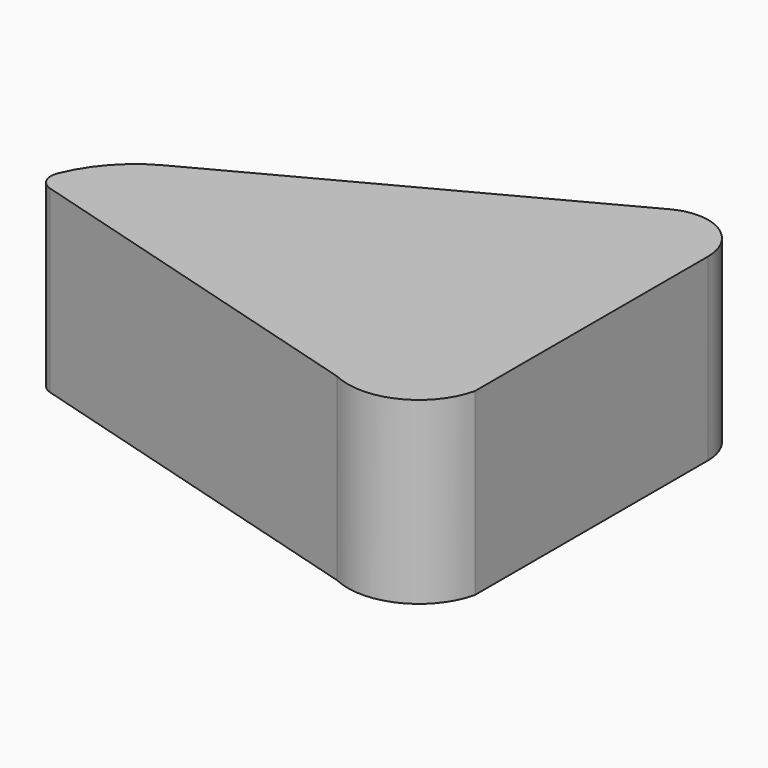
from build123d import *

# Parameters (mm, degrees)
F1_DEPTH = 51.781101
F2_R     = 5.08


with BuildPart() as f1:
    # F0 (on Top) → F1 (new body)
    with BuildSketch(Plane.XY):
        with BuildLine():
            ThreePointArc((-57.354006, 8.987376), (-68.874123, -0.765004), (-75.313404, -14.416292))
            Line((-75.313404, -14.416292), (37.298292, -47.019765))
            ThreePointArc((37.298292, -47.019765), (54.957383, -47.021575), (66.065729, -33.293933))
            Line((66.065729, -33.293933), (66.065729, 50.790668))
            ThreePointArc((66.065729, 50.790668), (59.123849, 63.060267), (45.031413, 63.429095))
            Line((45.031413, 63.429095), (-57.354006, 8.987376))
        make_face()
    extrude(amount=F1_DEPTH)

    # F2
    f2_edges = [f1.edges().sort_by_distance(p)[0] for p in [
        (-75.313404, -14.416292, 25.890551),
    ]]
    fillet(f2_edges, radius=F2_R)


solid = f1.part
